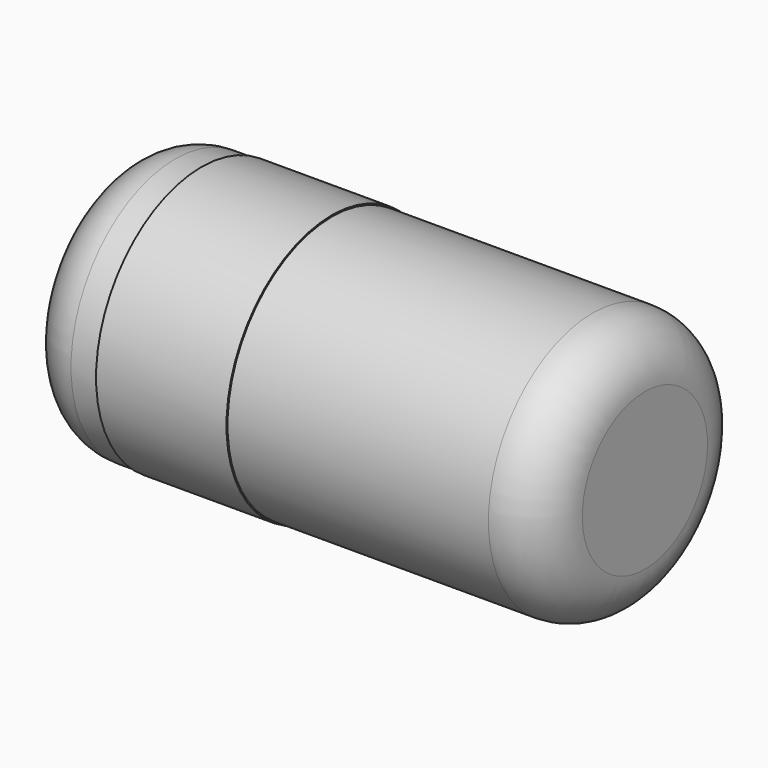
from build123d import *

# Parameters (mm, degrees)
SKETCH003_W = 1
SKETCH003_H = 0.02
SKETCH002_W = 4
SKETCH002_H = 1
FILLET_R    = 0.4


with BuildPart() as revolution001:
    # Sketch003 → Revolution001 (revolve)
    with BuildSketch(Plane.XZ):
        with Locations((2.91, 2.5)):
            Rectangle(SKETCH003_W, SKETCH003_H)
    revolve(axis=Axis((0, 0, 1.5), (1, 0, 0)))


with BuildPart() as obj1:
    # Sketch002 → Revolution (revolve)
    with BuildSketch(Plane.XZ):
        with Locations((3.81, 2)):
            Rectangle(SKETCH002_W, SKETCH002_H)
    revolve(axis=Axis((1.81, 0, 1.5), (1, 0, 0)))

    # Fillet
    fillet_edges = [obj1.edges().sort_by_distance(p)[0] for p in [
        (1.81, 0, 0.5),
        (5.81, 0, 0.5),
    ]]
    fillet(fillet_edges, radius=FILLET_R)

    add(revolution001.part)


solid = obj1.part
